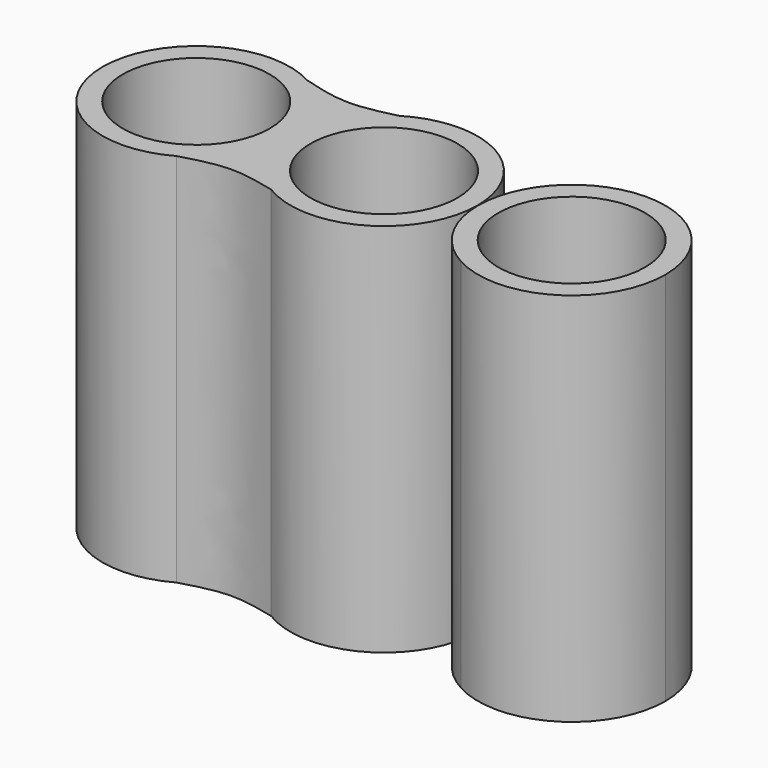
from build123d import *

# Parameters (mm, degrees)
F0_R     = 4.9701150295
F1_DEPTH = 25.4


with BuildPart() as f1:
    # F0 (on Top) → F1 (new body)
    with BuildSketch(Plane.XY):
        with BuildLine():
            ThreePointArc((-37.5548763983, 25.7465314516), (-35.1739195312, 28.0717865856), (-34.2998874076, 31.2829911709))
            ThreePointArc((-34.2998874076, 31.2829911709), (-35.1857123791, 34.5141706089), (-37.5954967585, 36.8418616721))
            ThreePointArc((-37.5954967585, 36.8418616721), (-46.9718815253, 31.2597949599), (-37.5548763983, 25.7465314516))
        make_face()
        with Locations((-40.6359056969, 31.2829911709)):
            Circle(F0_R, mode=Mode.SUBTRACT)
        with BuildLine():
            ThreePointArc((-37.5954967585, 36.8418616721), (-35.1857123791, 34.5141706089), (-34.2998874076, 31.2829911709))
            ThreePointArc((-34.2998874076, 31.2829911709), (-35.1739195312, 28.0717865856), (-37.5548763983, 25.7465314516))
            add(Edge.make_bspline(
                [(-31.2454644094, 25.8800337501), (-32.3105548409, 26.1403817015), (-34.4478644821, 26.6389357107), (-36.5192941883, 26.0489230754), (-37.5548763983, 25.7465314516)],
                knots=[0.0089398672, 0.0089398672, 0.0089398672, 0.0089398672, 0.5034442521, 1, 1, 1, 1], degree=3))
            ThreePointArc((-31.2454644094, 25.8800337501), (-34.2719165296, 31.2927117553), (-31.2288706449, 36.6960780548))
            add(Edge.make_bspline(
                [(-37.5954967585, 36.8418616721), (-36.523194575, 36.5315601084), (-34.3892290206, 35.9292461532), (-32.2761431391, 36.4370577262), (-31.2288706449, 36.6960780548)],
                knots=[0, 0, 0, 0, 0.5034442521, 1, 1, 1, 1], degree=3))
        make_face()
        with BuildLine():
            ThreePointArc((-24.9143238289, 36.8521177431), (-28.0924281877, 37.6170758303), (-31.2288706449, 36.6960780548))
            ThreePointArc((-31.2288706449, 36.6960780548), (-34.2719165296, 31.2927117553), (-31.2454644094, 25.8800337501))
            ThreePointArc((-31.2454644094, 25.8800337501), (-24.8394800777, 25.7551275558), (-21.5998874076, 31.2829911709))
            ThreePointArc((-21.5998874076, 31.2829911709), (-22.4911868914, 34.5233869634), (-24.9143238289, 36.8521177431))
        make_face()
        with Locations((-27.9359056969, 31.2829911709)):
            Circle(F0_R, mode=Mode.SUBTRACT)
    extrude(amount=F1_DEPTH)


with BuildPart() as f1b:
    # F0 (on Top) → F1, piece 2 (new body)
    with BuildSketch(Plane.XY):
        with BuildLine():
            ThreePointArc((-8.8998874076, 31.2829911709), (-12.3160899846, 36.906140108), (-18.8808573243, 36.4656020377))
            ThreePointArc((-18.8808573243, 36.4656020377), (-21.5617935844, 30.9248428827), (-18.2725995758, 25.7220903402))
            ThreePointArc((-18.2725995758, 25.7220903402), (-12.0029055572, 25.8338776779), (-8.8998874076, 31.2829911709))
        make_face()
        with Locations((-15.2359056969, 31.2829911709)):
            Circle(F0_R, mode=Mode.SUBTRACT)
    extrude(amount=F1_DEPTH)


solid = Compound([f1.part, f1b.part])
